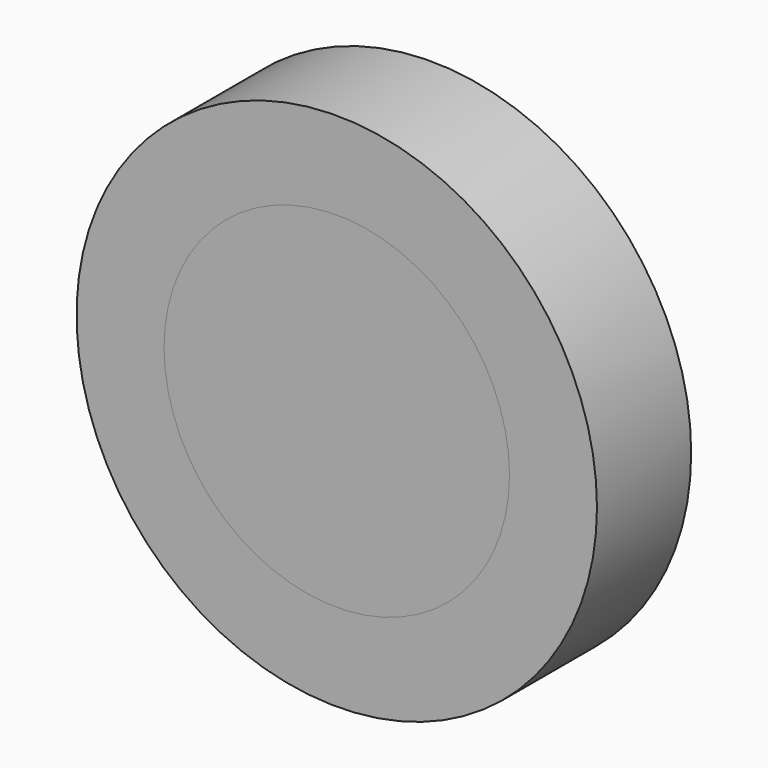
from build123d import *

# Parameters (mm, degrees)
F0_R     = 33.1408676413
F0_R_2   = 22
F2_DEPTH = 15
F1_R     = 22


with BuildPart() as f2:
    # F0 (on Front) → F2 (new body)
    with BuildSketch(Plane.XZ):
        Circle(F0_R)
        Circle(F0_R_2, mode=Mode.SUBTRACT)
    extrude(amount=F2_DEPTH)


with BuildPart() as f2b:
    # F1 (on face) → F2, piece 2 (new body)
    with BuildSketch(Plane.XZ):
        Circle(F1_R)
    extrude(amount=F2_DEPTH)


solid = Compound([f2.part, f2b.part])
